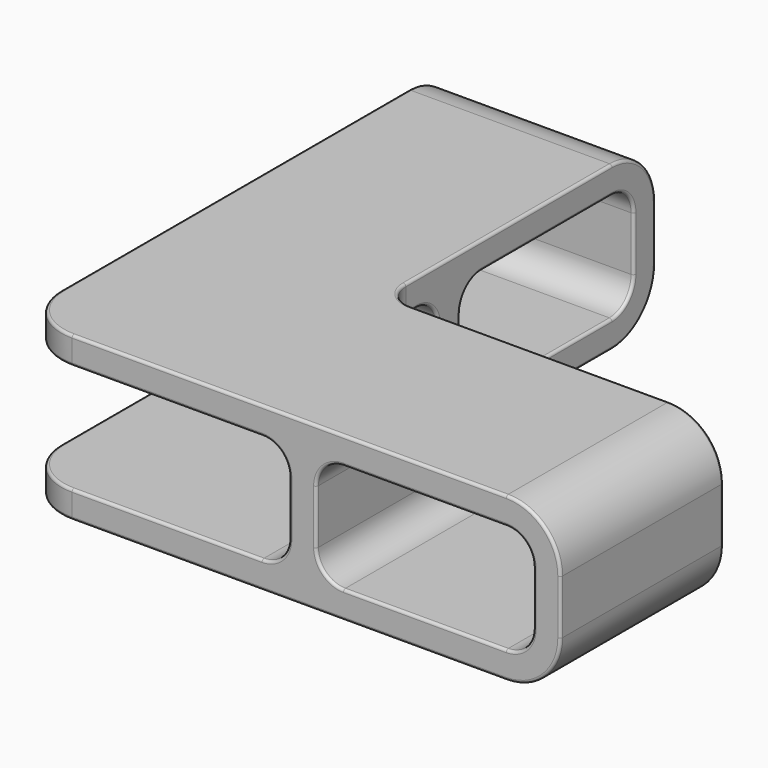
from build123d import *

# Parameters (mm, degrees)
F0_W     = 38.1
F0_H     = 5.08
F0_H_2   = 40.64
F0_H_3   = 12.7
F0_H_4   = 38.1
F0_W_2   = 12.7
F0_W_3   = 5.08
F0_W_4   = 40.64
F1_DEPTH = 15.24
F2_DEPTH = 10.16
F4_R     = 5.08
F5_R     = 10.16
F6_R     = 0.508


with BuildPart() as f1:
    # F0 (on Top) → F1 (new body)
    with BuildSketch(Plane.XY):
        with Locations((19.05, 99.06)):
            Rectangle(F0_W, F0_H)
        with Locations((19.05, 76.2)):
            Rectangle(F0_W, F0_H_2)
        with Locations((19.05, 53.34)):
            Rectangle(F0_W, F0_H)
        with Locations((19.05, 44.45)):
            Rectangle(F0_W, F0_H_3)
        with Locations((19.05, 19.05)):
            Rectangle(F0_W, F0_H_4)
        with Locations((44.45, 19.05)):
            Rectangle(F0_W_2, F0_H_4)
        with Locations((53.34, 19.05)):
            Rectangle(F0_W_3, F0_H_4)
        with Locations((76.2, 19.05)):
            Rectangle(F0_W_4, F0_H_4)
        with Locations((99.06, 19.05)):
            Rectangle(F0_W_3, F0_H_4)
    extrude(amount=F1_DEPTH)

    # F0 (on Top) → F2 (cut)
    with BuildSketch(Plane.XY):
        with Locations((19.05, 76.2)):
            Rectangle(F0_W, F0_H_2)
        with Locations((19.05, 44.45)):
            Rectangle(F0_W, F0_H_3)
        with Locations((19.05, 19.05)):
            Rectangle(F0_W, F0_H_4)
        with Locations((44.45, 19.05)):
            Rectangle(F0_W_2, F0_H_4)
        with Locations((76.2, 19.05)):
            Rectangle(F0_W_4, F0_H_4)
    extrude(amount=F2_DEPTH, mode=Mode.SUBTRACT)

    # F3: F1 across plane


with BuildPart() as f1_1:
    add(f1.part)
    add(f1.part.mirror(Plane.XY))

    # F4
    f4_edges = [f1_1.edges().sort_by_distance(p)[0] for p in [
        (19.05, 96.52, 10.16),
        (19.05, 96.52, -10.16),
        (19.05, 55.88, -10.16),
        (19.05, 50.8, -10.16),
        (19.05, 55.88, 10.16),
        (19.05, 50.8, 10.16),
        (50.8, 19.05, 10.16),
        (50.8, 19.05, -10.16),
        (96.52, 19.05, -10.16),
        (96.52, 19.05, 10.16),
        (55.88, 19.05, 10.16),
        (55.88, 19.05, -10.16),
        (38.1, 38.1, 12.7),
        (38.1, 38.1, -12.7),
    ]]
    fillet(f4_edges, radius=F4_R)

    # F5
    f5_edges = [f1_1.edges().sort_by_distance(p)[0] for p in [
        (0, 0, 12.7),
        (0, 0, -12.7),
        (19.05, 101.6, 15.24),
        (19.05, 101.6, -15.24),
        (101.6, 19.05, 15.24),
        (101.6, 19.05, -15.24),
    ]]
    fillet(f5_edges, radius=F5_R)

    # F6
    f6_edges = [f1_1.edges().sort_by_distance(p)[0] for p in [
        (50.8, 0, 15.24),
        (27.94, 0, -10.16),
        (50.8, 0, -15.24),
        (76.2, 0, -10.16),
        (76.2, 38.1, -10.16),
        (39.587898, 39.587898, -10.16),
        (67.31, 38.1, -15.24),
        (38.1, 76.2, -10.16),
        (0, 76.2, -10.16),
    ]]
    fillet(f6_edges, radius=F6_R)


solid = f1_1.part
